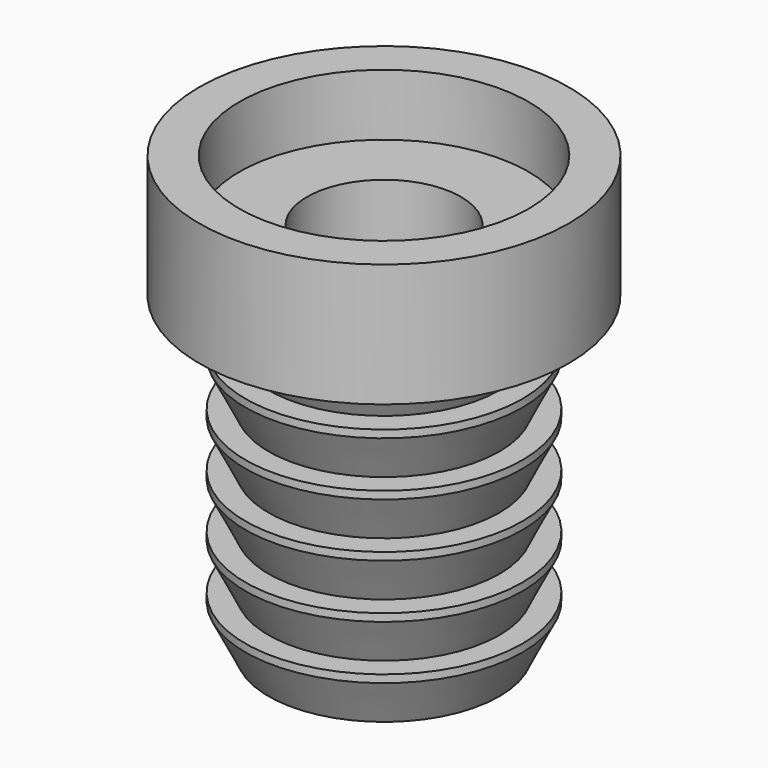
from build123d import *

# Parameters (mm, degrees)
F0_R      = 9
F0_R_2    = 5
F1_DEPTH  = 25
F17_DEPTH = 0.5
F18_R     = 12
F18_R_2   = 9
F19_DEPTH = 4
F20_R     = 9.4
F20_R_2   = 9
F21_DEPTH = 4


with BuildPart() as f1:
    # F0 (on Top) → F1 (new body)
    with BuildSketch(Plane.XY):
        Circle(F0_R)
        Circle(F0_R_2, mode=Mode.SUBTRACT)
    extrude(amount=F1_DEPTH)

    # F15 (on Front) → F16 (revolve, cut)
    with BuildSketch(Plane.XZ):
        Polygon((9, 18), (9, 21), (7.5, 18), align=None)
        Polygon((7.5, 14.5), (9, 14.5), (9, 17.5), align=None)
        Polygon((7.5, 11), (9, 11), (9, 14), align=None)
        Polygon((7.5, 7.5), (9, 7.5), (9, 10.5), align=None)
        Polygon((7.5, 4), (9, 4), (9, 7), align=None)
        Polygon((7.5, 0.5), (9, 0.5), (9, 3.5), align=None)
    revolve(axis=Axis((0, 0, 25), (0, 0, 1)), mode=Mode.SUBTRACT)

    # F17 (cut): a face of the model
    f17_faces = [f1.faces().sort_by_distance(p)[0] for p in [
        (-8.7454415588, 0, 0),
    ]]
    extrude(f17_faces, amount=-F17_DEPTH, mode=Mode.SUBTRACT)

    # F18 (on face) → F19 (join, symmetric)
    with BuildSketch(Plane.XY.offset(25)):
        Circle(F18_R)
        Circle(F18_R_2, mode=Mode.SUBTRACT)
    extrude(amount=F19_DEPTH, both=True)

    # F20 (on face) → F21 (cut, through all)
    with BuildSketch(Plane.XY.offset(29)):
        Circle(F20_R)
        Circle(F20_R_2, mode=Mode.SUBTRACT)
    extrude(amount=-F21_DEPTH, mode=Mode.SUBTRACT)


solid = f1.part
